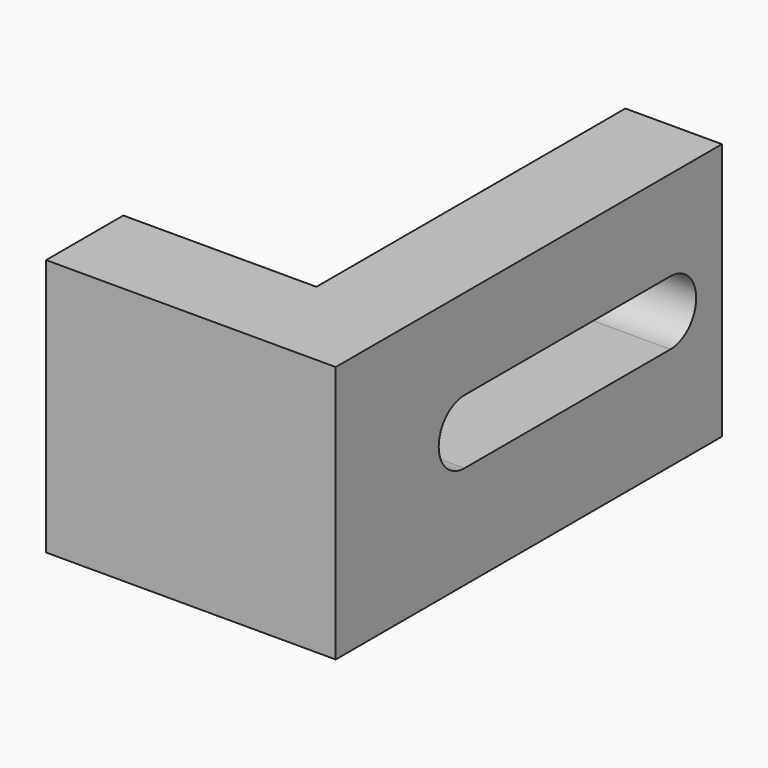
from build123d import *

# Parameters (mm, degrees)
F1_DEPTH = 40
F3_DEPTH = 45.001


with BuildPart() as f1:
    # F0 (on Top) → F1 (new body)
    with BuildSketch(Plane.XY):
        Polygon((-45, 0), (0, 0), (0, 75), (-15, 75), (-15, 15), (-45, 15), align=None)
    extrude(amount=F1_DEPTH)

    # F2 (on face) → F3 (cut, through all)
    with BuildSketch(Plane.YZ):
        with BuildLine():
            Line((65, 26.000001), (25, 26.000001))
            ThreePointArc((25, 26.000001), (20, 21.000001), (25, 16.000001))
            Line((25, 16.000001), (65, 16.000001))
            ThreePointArc((65, 16.000001), (70, 21.000001), (65, 26.000001))
        make_face()
    extrude(amount=-F3_DEPTH, mode=Mode.SUBTRACT)


solid = f1.part
